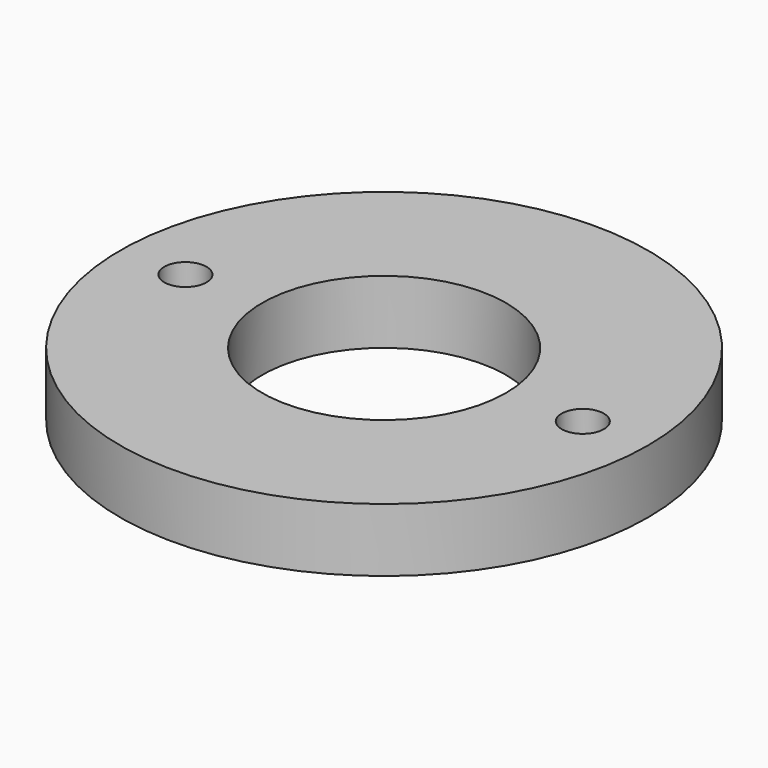
from build123d import *

# Parameters (mm, degrees)
F0_R     = 31.7246
F0_R_2   = 14.6558
F1_DEPTH = 7.62
F2_R     = 2.54
F3_DEPTH = 12.7


with BuildPart() as f1:
    # F0 (on Top) → F1 (new body)
    with BuildSketch(Plane.XY):
        Circle(F0_R)
        Circle(F0_R_2, mode=Mode.SUBTRACT)
    extrude(amount=F1_DEPTH)

    # F2 (on face) → F3 (cut)
    with BuildSketch(Plane.XY.offset(7.62)):
        with Locations((-23.879528, 0)):
            Circle(F2_R)
        with Locations((23.879528, 0)):
            Circle(F2_R)
    extrude(amount=-F3_DEPTH, mode=Mode.SUBTRACT)


solid = f1.part
